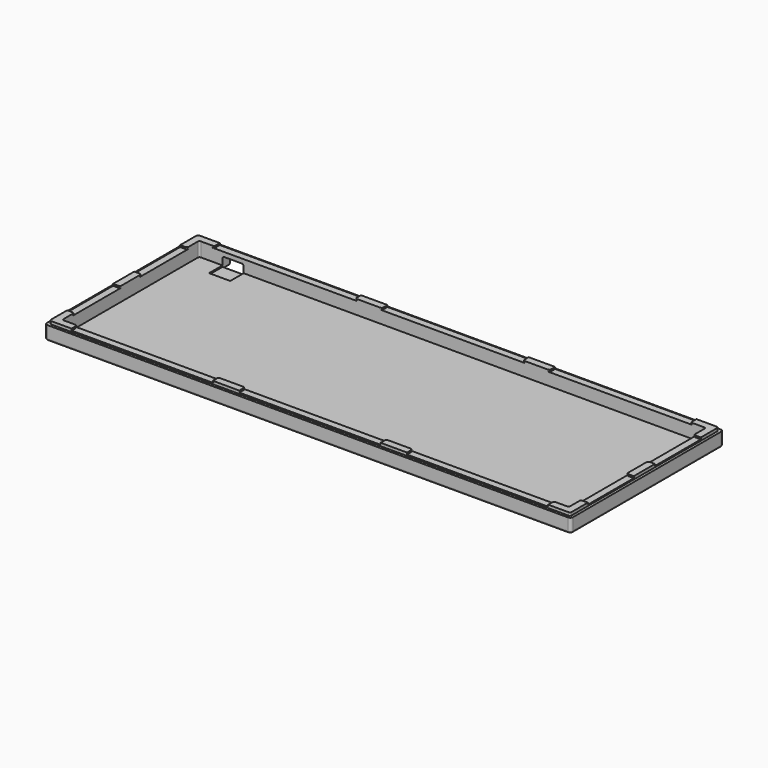
from build123d import *

# Parameters (mm, degrees)
SKETCH001_W     = 298
SKETCH001_H     = 108
PAD_DEPTH       = 9.5
SKETCH002_W     = 287
SKETCH002_H     = 97
POCKET_DEPTH    = 8
SKETCH003_W     = 299
SKETCH003_H     = 109
SKETCH003_W_2   = 294.96
SKETCH003_H_2   = 104.96
POCKET001_DEPTH = 1.7
SKETCH004_W     = 80
SKETCH004_H     = 4
SKETCH004_W_2   = 4
SKETCH004_H_2   = 32.5
POCKET002_DEPTH = 1
SKETCH005_W     = 12
SKETCH005_H     = 3.5
POCKET003_DEPTH = 15
SKETCH_W        = 12
SKETCH_H        = 6
POCKET004_DEPTH = 5.5
FILLET_R        = 1.5
FILLET001_R     = 1
FILLET002_R     = 1
FILLET003_R     = 1
FILLET004_R     = 1
FILLET005_R     = 1


with BuildPart() as part:
    # Sketch001 → Pad (new body)
    with BuildSketch(Plane.XY):
        Rectangle(SKETCH001_W, SKETCH001_H)
    extrude(amount=PAD_DEPTH)

    # Sketch002 (on Face6 of Pad) → Pocket (cut)
    with BuildSketch(Plane.XY.offset(9.5)):
        Rectangle(SKETCH002_W, SKETCH002_H)
    extrude(amount=-POCKET_DEPTH, mode=Mode.SUBTRACT)

    # Sketch003 (on Face5 of Pocket) → Pocket001 (cut)
    with BuildSketch(Plane.XY.offset(9.5)):
        Rectangle(SKETCH003_W, SKETCH003_H)
        Rectangle(SKETCH003_W_2, SKETCH003_H_2, mode=Mode.SUBTRACT)
    extrude(amount=-POCKET001_DEPTH, mode=Mode.SUBTRACT)

    # Sketch004 (on Face11 of Pocket001) → Pocket002 (cut)
    with BuildSketch(Plane.XY.offset(9.5)):
        with Locations((-95, 50.5)):
            Rectangle(SKETCH004_W, SKETCH004_H)
        with Locations((0, 50.5)):
            Rectangle(SKETCH004_W, SKETCH004_H)
        with Locations((95, 50.5)):
            Rectangle(SKETCH004_W, SKETCH004_H)
        with Locations((95, -50.5)):
            Rectangle(SKETCH004_W, SKETCH004_H)
        with Locations((0, -50.5)):
            Rectangle(SKETCH004_W, SKETCH004_H)
        with Locations((-95, -50.5)):
            Rectangle(SKETCH004_W, SKETCH004_H)
        with Locations((-145.5, 23.75)):
            Rectangle(SKETCH004_W_2, SKETCH004_H_2)
        with Locations((-145.5, -23.75)):
            Rectangle(SKETCH004_W_2, SKETCH004_H_2)
        with Locations((145.5, 23.75)):
            Rectangle(SKETCH004_W_2, SKETCH004_H_2)
        with Locations((145.5, -23.75)):
            Rectangle(SKETCH004_W_2, SKETCH004_H_2)
    extrude(amount=-POCKET002_DEPTH, mode=Mode.SUBTRACT)

    # Sketch005 (on Face1 of Pocket002) → Pocket003 (cut)
    with BuildSketch(Plane(origin=(0, 54, 0), x_dir=(-1, 0, 0), z_dir=(0, 1, 0))):
        with Locations((124.3, 2.5)):
            Rectangle(SKETCH005_W, SKETCH005_H)
    extrude(amount=-POCKET003_DEPTH, mode=Mode.SUBTRACT)

    # Sketch (on Face1 of Pocket003) → Pocket004 (cut)
    with BuildSketch(Plane(origin=(0, 54, 0), x_dir=(-1, 0, 0), z_dir=(0, 1, 0))):
        with Locations((124.3, 3)):
            Rectangle(SKETCH_W, SKETCH_H)
    extrude(amount=-POCKET004_DEPTH, mode=Mode.SUBTRACT)

    # Fillet
    fillet_edges = [part.edges().sort_by_distance(p)[0] for p in [
        (-149, 54, 3.9),
        (-149, -54, 3.9),
        (149, 54, 3.9),
        (149, -54, 3.9),
    ]]
    fillet(fillet_edges, radius=FILLET_R)

    # Fillet001
    fillet001_edges = [part.edges().sort_by_distance(p)[0] for p in [
        (147.48, -52.48, 8.65),
        (-147.48, -52.48, 8.65),
        (147.48, 52.48, 8.65),
        (-147.48, 52.48, 8.65),
    ]]
    fillet(fillet001_edges, radius=FILLET001_R)

    # Fillet002
    fillet002_edges = [part.edges().sort_by_distance(p)[0] for p in [
        (143.5, 48.5, 5.5),
        (-143.5, 48.5, 5.5),
        (-143.5, -48.5, 5.5),
        (143.5, -48.5, 5.5),
    ]]
    fillet(fillet002_edges, radius=FILLET002_R)

    # Fillet003
    fillet003_edges = [part.edges().sort_by_distance(p)[0] for p in [
        (143.5, 40, 9),
        (135, 48.5, 9),
        (55, 48.5, 9),
        (40, 48.5, 9),
        (143.5, -7.5, 9),
        (143.5, 7.5, 9),
        (143.5, -40, 9),
        (135, -48.5, 9),
        (40, -48.5, 9),
        (-55, -48.5, 9),
        (-40, 48.5, 9),
        (-55, 48.5, 9),
        (-135, 48.5, 9),
        (-143.5, 40, 9),
        (-143.5, -7.5, 9),
        (-143.5, 7.5, 9),
        (-143.5, -40, 9),
        (-135, -48.5, 9),
        (-40, -48.5, 9),
        (55, -48.5, 9),
    ]]
    fillet(fillet003_edges, radius=FILLET003_R)

    # Fillet004
    fillet004_edges = [part.edges().sort_by_distance(p)[0] for p in [
        (-118.3, 51.25, 6),
        (-130.3, 51.25, 6),
    ]]
    fillet(fillet004_edges, radius=FILLET004_R)

    # Fillet005
    fillet005_edges = [part.edges().sort_by_distance(p)[0] for p in [
        (0, -54, 0),
    ]]
    fillet(fillet005_edges, radius=FILLET005_R)


solid = part.part
